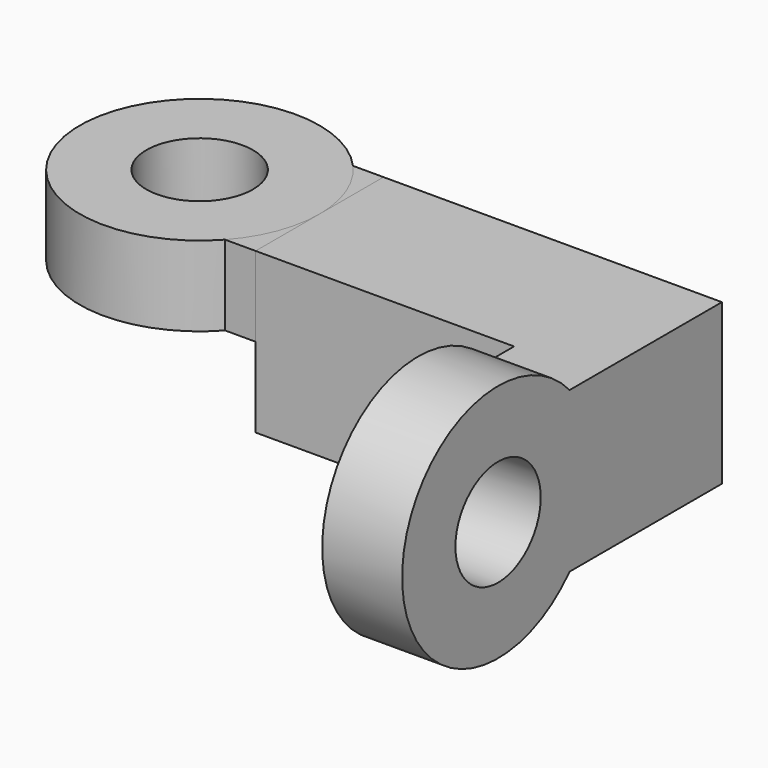
from build123d import *

# Parameters (mm, degrees)
F0_R     = 4
F1_DEPTH = 6
F0_W     = 12.7
F0_H     = 6
F2_DEPTH = 12
F3_DEPTH = 6
F5_DEPTH = 6
F6_D     = 8


with BuildPart() as f1:
    # F0 (on Top) → F1 (new body)
    with BuildSketch(Plane.XY):
        with BuildLine():
            ThreePointArc((-14.991796, -6), (-13.292449, -3.211399), (-12.7, 0))
            ThreePointArc((-12.7, 0), (-13.292449, 3.211399), (-14.991796, 6))
            ThreePointArc((-14.991796, 6), (-30.7, 0), (-14.991796, -6))
        make_face()
        with Locations((-21.7, 0)):
            Circle(F0_R, mode=Mode.SUBTRACT)
    extrude(amount=-F1_DEPTH)

    # F0 (on Top) → F2 (join)
    with BuildSketch(Plane.XY):
        with Locations((-6.35, 3)):
            Rectangle(F0_W, F0_H)
        with Locations((6.35, 3)):
            Rectangle(F0_W, F0_H)
        with Locations((-6.35, -3)):
            Rectangle(F0_W, F0_H)
        Polygon((12.7, 0), (0, 0), (0, -6), (7.7, -6), (12.7, -6), align=None)
    extrude(amount=-F2_DEPTH)

    # F4 (on face) → F5 (join)
    with BuildSketch(Plane.YZ.offset(12.7)):
        with BuildLine():
            ThreePointArc((-8.291796, -12), (-6.592449, -9.211399), (-6, -6))
            ThreePointArc((-6, -6), (-6.592449, -2.788601), (-8.291796, 0))
            ThreePointArc((-8.291796, 0), (-24, -6), (-8.291796, -12))
        make_face()
        with BuildLine():
            Line((-6, -12), (-6, -6))
            ThreePointArc((-6, -6), (-6.592449, -9.211399), (-8.291796, -12))
            Line((-8.291796, -12), (-6, -12))
        make_face()
        with BuildLine():
            Line((-6, -6), (-6, 0))
            Line((-6, 0), (-8.291796, 0))
            ThreePointArc((-8.291796, 0), (-6.592449, -2.788601), (-6, -6))
        make_face()
    extrude(amount=-F5_DEPTH)

    # F6 (through all)
    with Locations(Plane.YZ.offset(12.7)):
        with Locations((-15, -6)):
            Hole(F6_D / 2)


with BuildPart() as f3:
    # F0 (on Top) → F3 (new body)
    with BuildSketch(Plane.XY):
        with BuildLine():
            ThreePointArc((-14.991796, 6), (-13.292449, 3.211399), (-12.7, 0))
            Line((-12.7, 0), (-12.7, 6))
            Line((-12.7, 6), (-14.991796, 6))
        make_face()
        with BuildLine():
            Line((-12.7, -6), (-12.7, 0))
            ThreePointArc((-12.7, 0), (-13.292449, -3.211399), (-14.991796, -6))
            Line((-14.991796, -6), (-12.7, -6))
        make_face()
    extrude(amount=-F3_DEPTH)


solid = Compound([f1.part, f3.part])
